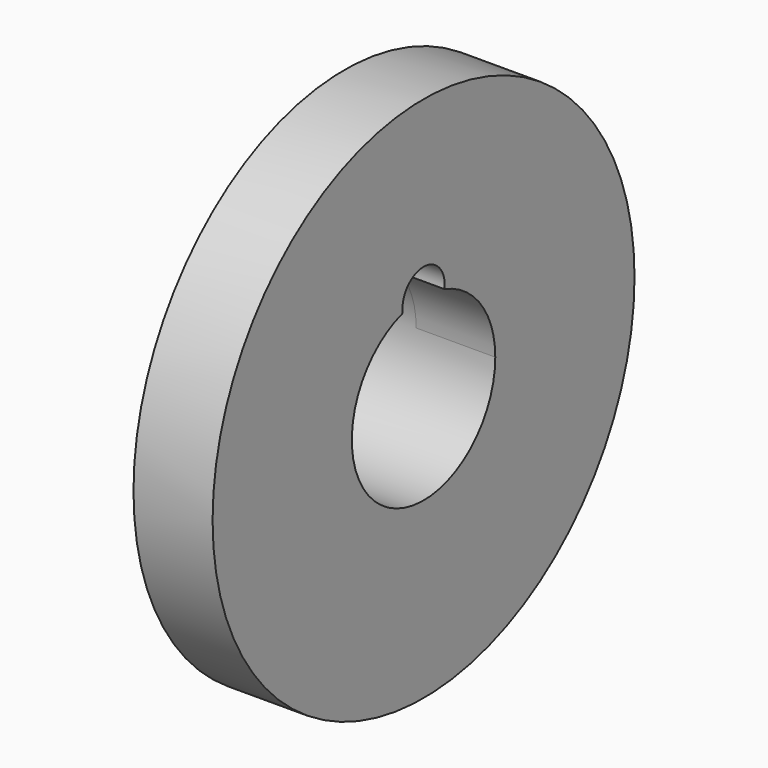
from build123d import *

# Parameters (mm, degrees)
F0_R     = 5
F0_R_2   = 1.7
F1_DEPTH = 1.5
F2_R     = 2.5
F2_R_2   = 1.7
F3_DEPTH = 1.5
F5_D     = 1


with BuildPart() as f1:
    # F0 (on Right) → F1 (new body)
    with BuildSketch(Plane.YZ):
        Circle(F0_R)
        Circle(F0_R_2, mode=Mode.SUBTRACT)
    extrude(amount=F1_DEPTH)

    # F2 (on face) → F3 (join)
    with BuildSketch(Plane(origin=(0, 0, 0), x_dir=(0, -1, 0), z_dir=(-1, 0, 0))):
        Circle(F2_R)
        Circle(F2_R_2, mode=Mode.SUBTRACT)
    extrude(amount=F3_DEPTH)

    # F5 (through all)
    with Locations(Plane(origin=(-1.5, 0, 0), x_dir=(0, -1, 0), z_dir=(-1, 0, 0))):
        with Locations((0, 1.7)):
            Hole(F5_D / 2)


solid = f1.part
